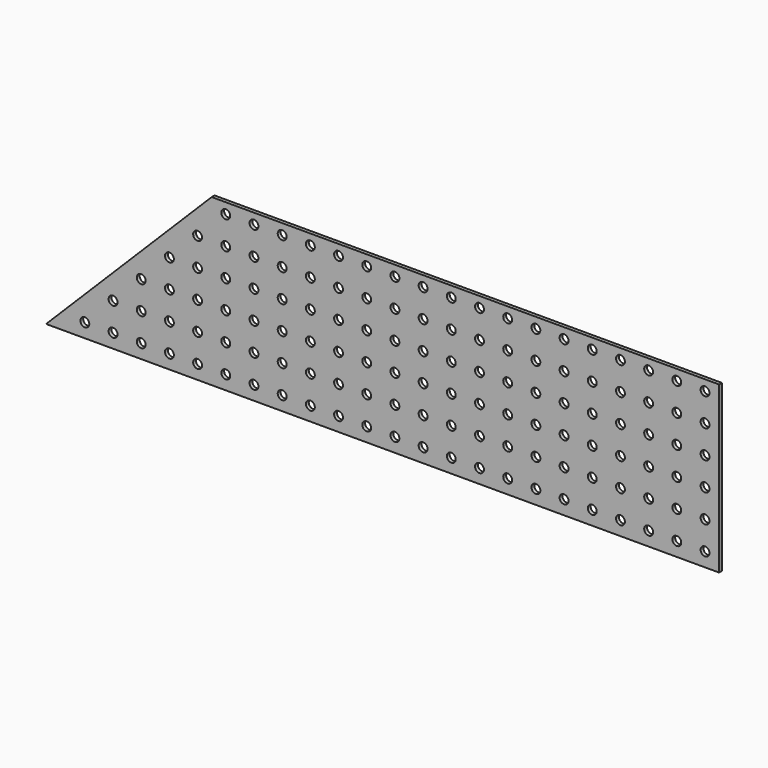
from build123d import *

# Parameters (mm, degrees)
F1_DEPTH = 3.175
F2_R     = 8.001
F3_DEPTH = 6.351


with BuildPart() as f1:
    # F0 (on Front) → F1 (new body, symmetric)
    with BuildSketch(Plane.XZ):
        Polygon((457.2, -149.225), (457.2, 149.225), (-457.2, 149.225), (-755.65, -149.225), (-457.2, -149.225), align=None)
    extrude(amount=F1_DEPTH, both=True)

    # F2 (on face) → F3 (cut, through all)
    with BuildSketch(Plane.XZ.offset(3.175)):
        with Locations((431.8, -123.825)):
            Circle(F2_R)
        with Locations((431.8, -73.025)):
            Circle(F2_R)
        with Locations((381, -123.825)):
            Circle(F2_R)
        with Locations((381, -73.025)):
            Circle(F2_R)
        with Locations((330.2, -123.825)):
            Circle(F2_R)
        with Locations((330.2, -73.025)):
            Circle(F2_R)
        with Locations((279.4, -123.825)):
            Circle(F2_R)
        with Locations((279.4, -73.025)):
            Circle(F2_R)
        with Locations((228.6, -123.825)):
            Circle(F2_R)
        with Locations((228.6, -73.025)):
            Circle(F2_R)
        with Locations((177.8, -123.825)):
            Circle(F2_R)
        with Locations((177.8, -73.025)):
            Circle(F2_R)
        with Locations((127, -123.825)):
            Circle(F2_R)
        with Locations((127, -73.025)):
            Circle(F2_R)
        with Locations((76.2, -123.825)):
            Circle(F2_R)
        with Locations((76.2, -73.025)):
            Circle(F2_R)
        with Locations((25.4, -123.825)):
            Circle(F2_R)
        with Locations((25.4, -73.025)):
            Circle(F2_R)
        with Locations((-25.4, -123.825)):
            Circle(F2_R)
        with Locations((-25.4, -73.025)):
            Circle(F2_R)
        with Locations((-76.2, -123.825)):
            Circle(F2_R)
        with Locations((-76.2, -73.025)):
            Circle(F2_R)
        with Locations((-127, -123.825)):
            Circle(F2_R)
        with Locations((-127, -73.025)):
            Circle(F2_R)
        with Locations((-177.8, -123.825)):
            Circle(F2_R)
        with Locations((-177.8, -73.025)):
            Circle(F2_R)
        with Locations((-228.6, -123.825)):
            Circle(F2_R)
        with Locations((-228.6, -73.025)):
            Circle(F2_R)
        with Locations((-279.4, -123.825)):
            Circle(F2_R)
        with Locations((-279.4, -73.025)):
            Circle(F2_R)
        with Locations((-330.2, -123.825)):
            Circle(F2_R)
        with Locations((-330.2, -73.025)):
            Circle(F2_R)
        with Locations((-381, -123.825)):
            Circle(F2_R)
        with Locations((-381, -73.025)):
            Circle(F2_R)
        with Locations((-431.8, -123.825)):
            Circle(F2_R)
        with Locations((-431.8, -73.025)):
            Circle(F2_R)
        with Locations((-482.6, -123.825)):
            Circle(F2_R)
        with Locations((-482.6, -73.025)):
            Circle(F2_R)
        with Locations((-533.4, -123.825)):
            Circle(F2_R)
        with Locations((-533.4, -73.025)):
            Circle(F2_R)
        with Locations((431.8, -22.225)):
            Circle(F2_R)
        with Locations((431.8, 28.575)):
            Circle(F2_R)
        with Locations((431.8, 79.375)):
            Circle(F2_R)
        with Locations((431.8, 130.175)):
            Circle(F2_R)
        with Locations((381, -22.225)):
            Circle(F2_R)
        with Locations((381, 28.575)):
            Circle(F2_R)
        with Locations((381, 79.375)):
            Circle(F2_R)
        with Locations((381, 130.175)):
            Circle(F2_R)
        with Locations((330.2, -22.225)):
            Circle(F2_R)
        with Locations((330.2, 28.575)):
            Circle(F2_R)
        with Locations((330.2, 79.375)):
            Circle(F2_R)
        with Locations((330.2, 130.175)):
            Circle(F2_R)
        with Locations((279.4, -22.225)):
            Circle(F2_R)
        with Locations((279.4, 28.575)):
            Circle(F2_R)
        with Locations((279.4, 79.375)):
            Circle(F2_R)
        with Locations((279.4, 130.175)):
            Circle(F2_R)
        with Locations((228.6, -22.225)):
            Circle(F2_R)
        with Locations((228.6, 28.575)):
            Circle(F2_R)
        with Locations((228.6, 79.375)):
            Circle(F2_R)
        with Locations((228.6, 130.175)):
            Circle(F2_R)
        with Locations((177.8, -22.225)):
            Circle(F2_R)
        with Locations((177.8, 28.575)):
            Circle(F2_R)
        with Locations((177.8, 79.375)):
            Circle(F2_R)
        with Locations((177.8, 130.175)):
            Circle(F2_R)
        with Locations((127, -22.225)):
            Circle(F2_R)
        with Locations((127, 28.575)):
            Circle(F2_R)
        with Locations((127, 79.375)):
            Circle(F2_R)
        with Locations((127, 130.175)):
            Circle(F2_R)
        with Locations((76.2, -22.225)):
            Circle(F2_R)
        with Locations((76.2, 28.575)):
            Circle(F2_R)
        with Locations((76.2, 79.375)):
            Circle(F2_R)
        with Locations((76.2, 130.175)):
            Circle(F2_R)
        with Locations((25.4, -22.225)):
            Circle(F2_R)
        with Locations((25.4, 28.575)):
            Circle(F2_R)
        with Locations((25.4, 79.375)):
            Circle(F2_R)
        with Locations((25.4, 130.175)):
            Circle(F2_R)
        with Locations((-25.4, -22.225)):
            Circle(F2_R)
        with Locations((-25.4, 28.575)):
            Circle(F2_R)
        with Locations((-25.4, 79.375)):
            Circle(F2_R)
        with Locations((-25.4, 130.175)):
            Circle(F2_R)
        with Locations((-76.2, -22.225)):
            Circle(F2_R)
        with Locations((-76.2, 28.575)):
            Circle(F2_R)
        with Locations((-76.2, 79.375)):
            Circle(F2_R)
        with Locations((-76.2, 130.175)):
            Circle(F2_R)
        with Locations((-127, -22.225)):
            Circle(F2_R)
        with Locations((-127, 28.575)):
            Circle(F2_R)
        with Locations((-127, 79.375)):
            Circle(F2_R)
        with Locations((-127, 130.175)):
            Circle(F2_R)
        with Locations((-177.8, -22.225)):
            Circle(F2_R)
        with Locations((-177.8, 28.575)):
            Circle(F2_R)
        with Locations((-177.8, 79.375)):
            Circle(F2_R)
        with Locations((-177.8, 130.175)):
            Circle(F2_R)
        with Locations((-228.6, -22.225)):
            Circle(F2_R)
        with Locations((-228.6, 28.575)):
            Circle(F2_R)
        with Locations((-228.6, 79.375)):
            Circle(F2_R)
        with Locations((-228.6, 130.175)):
            Circle(F2_R)
        with Locations((-279.4, -22.225)):
            Circle(F2_R)
        with Locations((-279.4, 28.575)):
            Circle(F2_R)
        with Locations((-279.4, 79.375)):
            Circle(F2_R)
        with Locations((-279.4, 130.175)):
            Circle(F2_R)
        with Locations((-330.2, -22.225)):
            Circle(F2_R)
        with Locations((-330.2, 28.575)):
            Circle(F2_R)
        with Locations((-330.2, 79.375)):
            Circle(F2_R)
        with Locations((-330.2, 130.175)):
            Circle(F2_R)
        with Locations((-381, -22.225)):
            Circle(F2_R)
        with Locations((-381, 28.575)):
            Circle(F2_R)
        with Locations((-381, 79.375)):
            Circle(F2_R)
        with Locations((-381, 130.175)):
            Circle(F2_R)
        with Locations((-431.8, -22.225)):
            Circle(F2_R)
        with Locations((-431.8, 28.575)):
            Circle(F2_R)
        with Locations((-431.8, 79.375)):
            Circle(F2_R)
        with Locations((-431.8, 130.175)):
            Circle(F2_R)
        with Locations((-482.6, -22.225)):
            Circle(F2_R)
        with Locations((-482.6, 28.575)):
            Circle(F2_R)
        with Locations((-482.6, 79.375)):
            Circle(F2_R)
        with Locations((-533.4, -22.225)):
            Circle(F2_R)
        with Locations((-533.4, 28.575)):
            Circle(F2_R)
        with Locations((-584.2, -123.825)):
            Circle(F2_R)
        with Locations((-584.2, -73.025)):
            Circle(F2_R)
        with Locations((-584.2, -22.225)):
            Circle(F2_R)
        with Locations((-635, -123.825)):
            Circle(F2_R)
        with Locations((-635, -73.025)):
            Circle(F2_R)
        with Locations((-685.8, -123.825)):
            Circle(F2_R)
    extrude(amount=-F3_DEPTH, mode=Mode.SUBTRACT)


solid = f1.part
